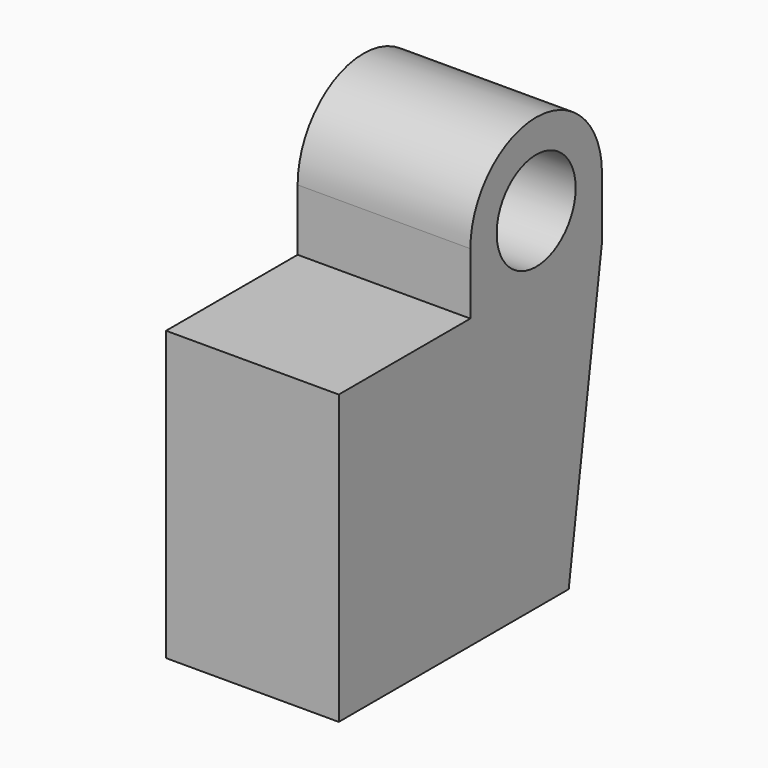
from build123d import *

# Parameters (mm, degrees)
F0_W     = 13.335
F0_H     = 22.2504
F1_DEPTH = 12.7
F2_R     = 3.81
F3_DEPTH = 13.335


with BuildPart() as f1:
    # F0 (on Front) → F1 (new body)
    with BuildSketch(Plane.XZ):
        with Locations((6.6675, 11.1252)):
            Rectangle(F0_W, F0_H)
    extrude(amount=F1_DEPTH)

    # F2 (on Right) → F3 (join)
    with BuildSketch(Plane.YZ):
        Polygon((0, 22.2504), (0, 0), (9.491803, 0), (12.700001, 22.2504), align=None)
        with BuildLine():
            Line((0, 27.0002), (0, 22.2504))
            Line((0, 22.2504), (12.700001, 22.2504))
            Line((12.700001, 22.2504), (12.700001, 27.0002))
            ThreePointArc((12.700001, 27.0002), (6.35, 33.3502), (0, 27.0002))
        make_face()
        with Locations((6.35, 27.0002)):
            Circle(F2_R, mode=Mode.SUBTRACT)
    extrude(amount=F3_DEPTH)


solid = f1.part
